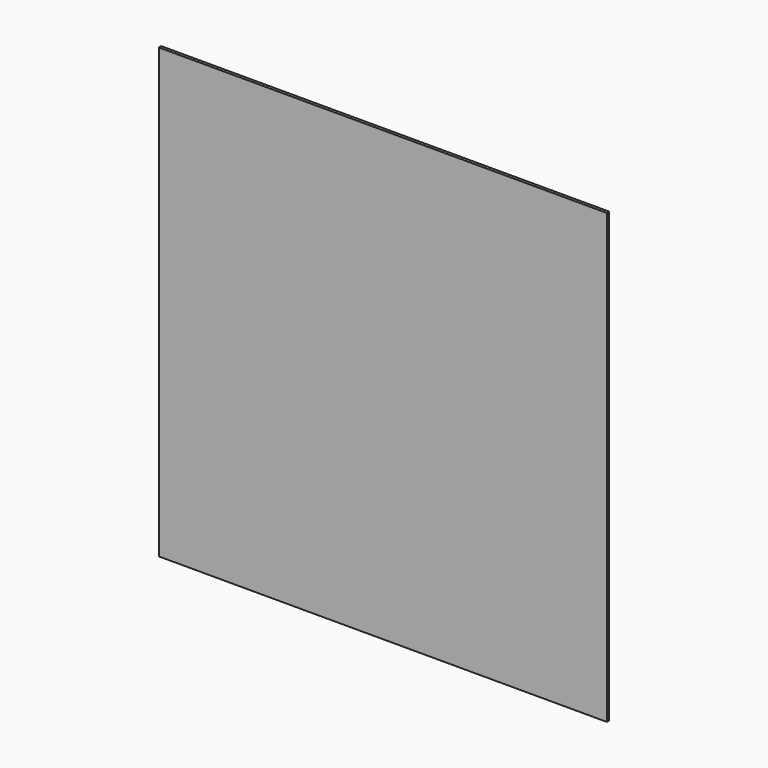
from build123d import *

# Parameters (mm, degrees)
F1_DEPTH = 0.254


with BuildPart() as f1:
    # F0 (on Front) → F1 (new body)
    with BuildSketch(Plane.XZ):
        with BuildLine():
            ThreePointArc((-0.0582960698, -19.05), (13.4120881498, -13.4703842024), (18.991703989, 0))
            ThreePointArc((18.991703989, 0), (13.4120881706, 13.4703841816), (-0.058296011, 19.05))
            ThreePointArc((-0.058296011, 19.05), (-13.5286801926, 13.4703841816), (-19.108296011, 0))
            ThreePointArc((-19.108296011, 0), (-13.5286802134, -13.4703841608), (-0.0582960698, -19.05))
        make_face()
        with BuildLine():
            Line((18.991703989, -19.05), (18.991703989, 0))
            ThreePointArc((18.991703989, 0), (13.4120881498, -13.4703842024), (-0.0582960698, -19.05))
            Line((-0.0582960698, -19.05), (18.991703989, -19.05))
        make_face()
        with BuildLine():
            ThreePointArc((-0.058296011, 19.05), (13.4120881706, 13.4703841816), (18.991703989, 0))
            Line((18.991703989, 0), (18.991703989, 19.05))
            Line((18.991703989, 19.05), (-0.058296011, 19.05))
        make_face()
        with BuildLine():
            ThreePointArc((-19.108296011, 0), (-13.5286801926, 13.4703841816), (-0.058296011, 19.05))
            Line((-0.058296011, 19.05), (-19.108296011, 19.05))
            Line((-19.108296011, 19.05), (-19.108296011, 0))
        make_face()
        with BuildLine():
            Line((-19.108296011, -19.05), (-0.0582960698, -19.05))
            ThreePointArc((-0.0582960698, -19.05), (-13.5286802134, -13.4703841608), (-19.108296011, 0))
            Line((-19.108296011, 0), (-19.108296011, -19.05))
        make_face()
    extrude(amount=F1_DEPTH)


solid = f1.part
